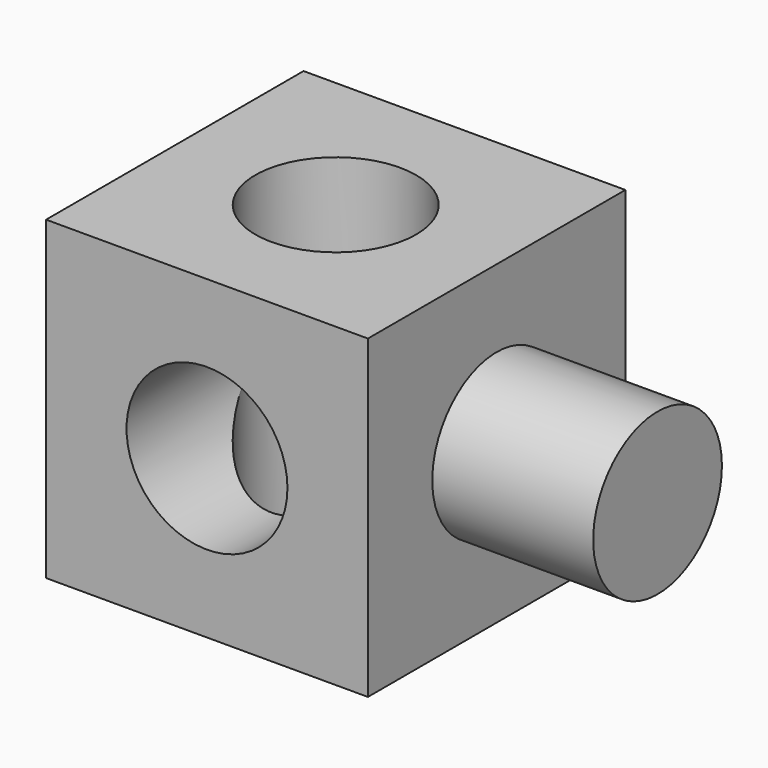
from build123d import *

# Parameters (mm, degrees)
F0_W     = 50.8
F0_H     = 49.806252
F0_R     = 12.7
F1_DEPTH = 25.4
F3_R     = 12.7
F4_DEPTH = 50.8
F6_R     = 12.7
F7_DEPTH = 25.4


with BuildPart() as f1:
    # F0 (on Front) → F1 (new body, symmetric)
    with BuildSketch(Plane.XZ):
        Rectangle(F0_W, F0_H)
        Circle(F0_R, mode=Mode.SUBTRACT)
    extrude(amount=F1_DEPTH, both=True)

    # F3 (on offset) → F4 (cut)
    with BuildSketch(Plane.XY.offset(25.4)):
        Circle(F3_R)
    extrude(amount=-F4_DEPTH, mode=Mode.SUBTRACT)

    # F6 (on offset) → F7 (join)
    with BuildSketch(Plane.YZ.offset(25.4)):
        Circle(F6_R)
    extrude(amount=F7_DEPTH)


solid = f1.part
